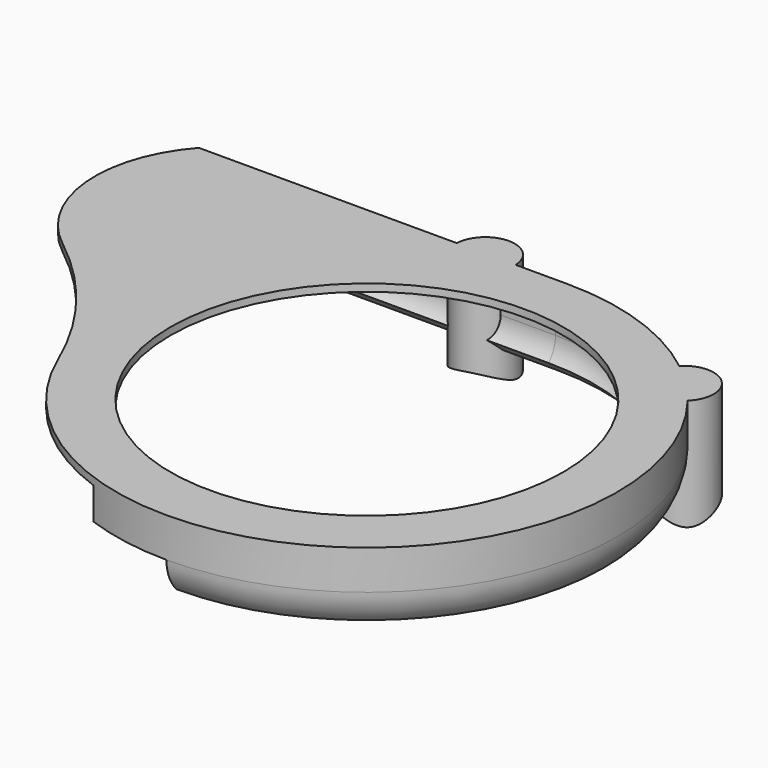
from build123d import *

# Parameters (mm, degrees)
CYLINDER_R                  = 9.7
CYLINDER_DEPTH              = 100
CYLINDER_ROLL_ANGLE         = -90
CYLINDER_PITCH_ANGLE        = -18.434967
CYLINDER_PLACEMENT_ANGLE    = 18.434967
CYLINDER001_R               = 8
CYLINDER001_DEPTH           = 100
CYLINDER001_ROLL_ANGLE      = -90
CYLINDER001_PITCH_ANGLE     = 45
CYLINDER001_PLACEMENT_ANGLE = -45
REVOLUTION_ANGLE            = -180
SKETCH005_R                 = 6
PAD001_DEPTH                = 8
PAD001_DEPTH_BACK           = 25
PAD002_DEPTH                = 75
SKETCH_R                    = 40
PAD_DEPTH                   = 8
POCKET_DEPTH                = 6.5


with BuildPart() as cylinder:
    # Cylinder → Cylinder (new body)
    with BuildSketch(Plane.XY):
        Circle(CYLINDER_R)
    extrude(amount=CYLINDER_DEPTH)


with BuildPart() as cylinder_1:
    # Cylinder roll: moved
    add(cylinder.part.rotate(Axis((0, 0, 0), (1, 0, 0)), CYLINDER_ROLL_ANGLE))


with BuildPart() as cylinder_2:
    # Cylinder pitch: moved
    add(cylinder_1.part.rotate(Axis((0, 0, 0), (0, 1, 0)), CYLINDER_PITCH_ANGLE))


with BuildPart() as cylinder_3:
    # Cylinder placement: moved
    add(cylinder_2.part.moved(Location((0, 0, -20))).rotate(Axis((0, 0, -20), (0, 0, 1)), CYLINDER_PLACEMENT_ANGLE))


with BuildPart() as fusion001:
    # Cylinder001 → Cylinder001 (new body)
    with BuildSketch(Plane.XY):
        Circle(CYLINDER001_R)
    extrude(amount=CYLINDER001_DEPTH)


with BuildPart() as fusion001_1:
    # Cylinder001 roll: moved
    add(fusion001.part.rotate(Axis((0, 0, 0), (1, 0, 0)), CYLINDER001_ROLL_ANGLE))


with BuildPart() as fusion001_2:
    # Cylinder001 pitch: moved
    add(fusion001_1.part.rotate(Axis((0, 0, 0), (0, 1, 0)), CYLINDER001_PITCH_ANGLE))


with BuildPart() as fusion001_3:
    # Cylinder001 placement: moved
    add(fusion001_2.part.moved(Location((0, 0, -20))).rotate(Axis((0, 0, -20), (0, 0, 1)), CYLINDER001_PLACEMENT_ANGLE))

    # Fusion001: union Cylinder
    add(cylinder_3.part)


with BuildPart() as revolution:
    # Sketch004 → Revolution (revolve)
    with BuildSketch(Plane.YZ):
        with BuildLine():
            Line((48.363934, -6.363988), (46.242623, -4.242658))
            ThreePointArc((46.242623, -4.242658), (47.543272, -2.296112), (48, 0))
            Line((48, 0), (51, 0))
            ThreePointArc((48.363934, -6.363988), (50.314909, -3.444168), (51, 0))
        make_face()
    revolve(axis=Axis((0, 0, 0), (0, 0, 1)), revolution_arc=REVOLUTION_ANGLE)


with BuildPart() as pad001:
    # Sketch005 → Pad001 (new body, two sides)
    with BuildSketch(Plane.XY) as pad001_sk:
        with Locations((-16.492364, 50.758278)):
            Circle(SKETCH005_R)
        with Locations((35.894688, 35.894688)):
            Circle(SKETCH005_R)
    extrude(amount=PAD001_DEPTH)
    extrude(pad001_sk.sketch, amount=-PAD001_DEPTH_BACK)


with BuildPart() as pad002:
    # Sketch006 → Pad002 (new body)
    with BuildSketch(Plane.YZ):
        with BuildLine():
            Line((48.363934, -6.363988), (46.242623, -4.242658))
            ThreePointArc((46.242623, -4.242658), (47.543272, -2.296112), (48, 0))
            Line((48, 0), (51, 0))
            ThreePointArc((48.363934, -6.363988), (50.314909, -3.444168), (51, 0))
        make_face()
    extrude(amount=-PAD002_DEPTH)


with BuildPart() as cut:
    # Sketch → Pad (new body)
    with BuildSketch(Plane.XY):
        with BuildLine():
            ThreePointArc((-46.914816, -20), (42.549971, -28.115832), (0, 51))
            Line((-75, 51), (0, 51))
            ThreePointArc((-75, 51), (-81.690324, 30.60121), (-71.383422, 11.769352))
            ThreePointArc((-46.914816, -20), (-57.126294, -2.557354), (-71.383422, 11.769352))
        make_face()
        Circle(SKETCH_R, mode=Mode.SUBTRACT)
    extrude(amount=PAD_DEPTH)

    # Sketch001 → Pocket (cut)
    with BuildSketch(Plane(origin=(0, 0, 0), x_dir=(1, 0, 0), z_dir=(0, 0, -1))):
        with BuildLine():
            Line((-146.216, -48), (0, -48))
            ThreePointArc((0, -48), (48, 0), (0, 48))
            Line((0, 48), (-146.216, 48))
            Line((-146.216, -48), (-146.216, 48))
        make_face()
    extrude(amount=-POCKET_DEPTH, mode=Mode.SUBTRACT)

    # Fusion: union Revolution, Pad001, Pad002
    add(revolution.part)
    add(pad001.part)
    add(pad002.part)

    # Cut: cut Fusion001
    add(fusion001_3.part, mode=Mode.SUBTRACT)


solid = cut.part
